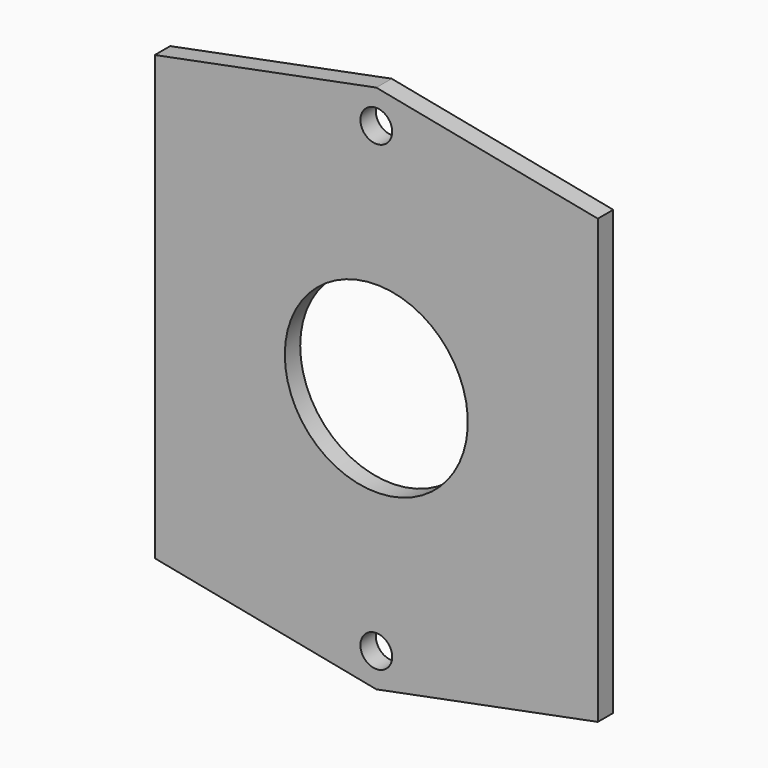
from build123d import *

# Parameters (mm, degrees)
F1_DEPTH = 2
F2_R     = 9.5
F3_DEPTH = 25
F6_D     = 3.3


with BuildPart() as f1:
    # F0 (on Front) → F1 (new body)
    with BuildSketch(Plane.XZ):
        Polygon((23, -19), (23, 23), (-23, 23), (-23, -23), (23, -23), align=None)
        Polygon((-23, 23), (23, 23), (0, 27.5), align=None)
        Polygon((23, -23), (-23, -23), (0, -27.5), align=None)
    extrude(amount=F1_DEPTH)

    # F2 (on face) → F3 (cut)
    with BuildSketch(Plane(origin=(0, 0, 0), x_dir=(-1, 0, 0), z_dir=(0, 1, 0))):
        Circle(F2_R)
    extrude(amount=-F3_DEPTH, mode=Mode.SUBTRACT)

    # F6 (through all)
    with Locations(Plane.XZ.offset(2)):
        with Locations((0, -24), (0, 24)):
            Hole(F6_D / 2)


solid = f1.part
